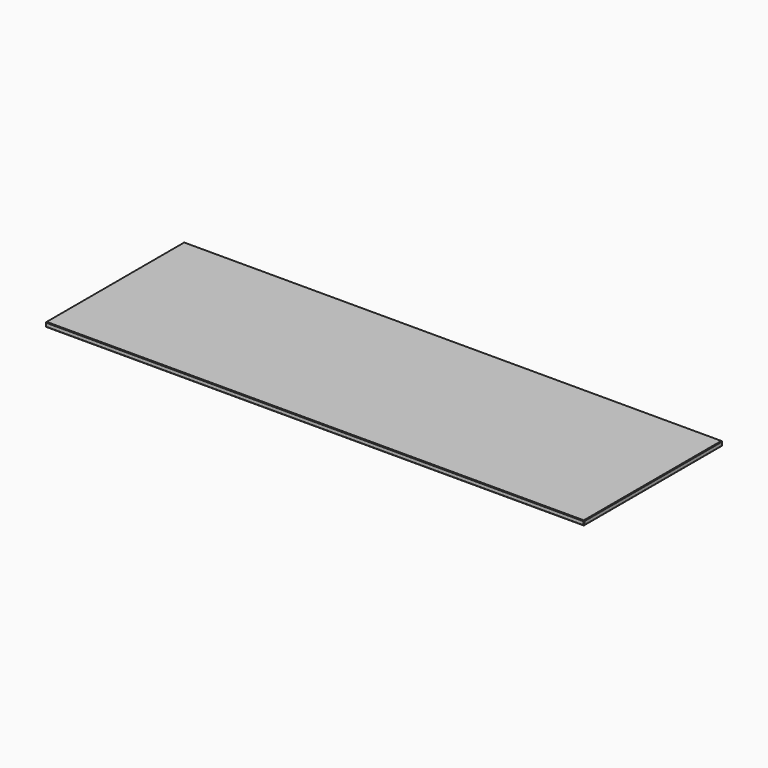
from build123d import *

# Parameters (mm, degrees)
F0_W     = 933
F0_H     = 300
F1_DEPTH = 4
F2_SIZE  = 1
F3_SIZE  = 1
F4_SIZE  = 1
F5_SIZE  = 1
F6_SIZE  = 1
F7_SIZE  = 1


with BuildPart() as f1:
    # F0 (on Top) → F1 (new body, symmetric)
    with BuildSketch(Plane.XY):
        Rectangle(F0_W, F0_H)
    extrude(amount=F1_DEPTH, both=True)

    # F2
    f2_edges = [f1.edges().sort_by_distance(p)[0] for p in [
        (466.5, 0, -4),
        (0, -150, -4),
        (-466.5, 0, -4),
        (0, 150, -4),
    ]]
    chamfer(f2_edges, length=F2_SIZE)

    # F3
    f3_edges = [f1.edges().sort_by_distance(p)[0] for p in [
        (466.5, -150, 0.5),
    ]]
    chamfer(f3_edges, length=F3_SIZE)

    # F4
    f4_edges = [f1.edges().sort_by_distance(p)[0] for p in [
        (-466.5, 150, 0.5),
    ]]
    chamfer(f4_edges, length=F4_SIZE)

    # F5
    f5_edges = [f1.edges().sort_by_distance(p)[0] for p in [
        (-466.5, -150, 0.5),
    ]]
    chamfer(f5_edges, length=F5_SIZE)

    # F6
    f6_edges = [f1.edges().sort_by_distance(p)[0] for p in [
        (466.5, 150, 0.5),
    ]]
    chamfer(f6_edges, length=F6_SIZE)

    # F7 (call 1 of 4: OpenCascade refuses the feature's edges together)
    f7_edges = [f1.edges().sort_by_distance(p)[0] for p in [
        (0, -150, 4),
    ]]
    chamfer(f7_edges, length=F7_SIZE)

    # F7#2 (call 2 of 4)
    f7_2_edges = [f1.edges().sort_by_distance(p)[0] for p in [
        (466.5, 0, 4),
    ]]
    chamfer(f7_2_edges, length=F7_SIZE)

    # F7#3 (call 3 of 4)
    f7_3_edges = [f1.edges().sort_by_distance(p)[0] for p in [
        (0, 150, 4),
    ]]
    chamfer(f7_3_edges, length=F7_SIZE)

    # F7#4 (call 4 of 4)
    f7_4_edges = [f1.edges().sort_by_distance(p)[0] for p in [
        (-466.5, 0, 4),
    ]]
    chamfer(f7_4_edges, length=F7_SIZE)


solid = f1.part
